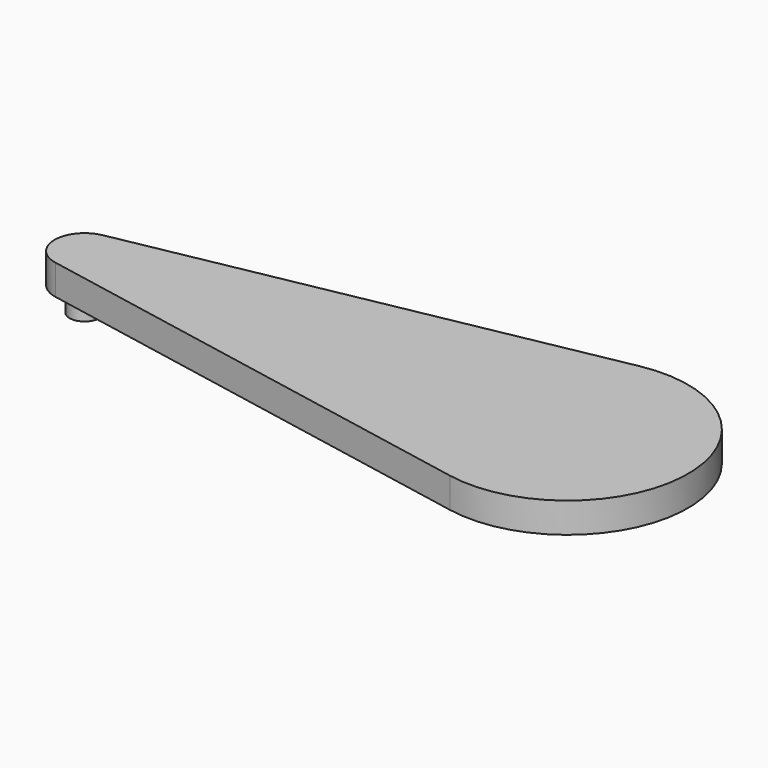
from build123d import *

# Parameters (mm, degrees)
F0_R     = 1.5875
F1_DEPTH = 3.175
F2_DEPTH = 2.54


with BuildPart() as f1:
    # F0 (on Top) → F1 (new body)
    with BuildSketch(Plane.XY):
        with BuildLine():
            Line((48.41875, 12.47476), (-0.595312, 3.11869))
            ThreePointArc((-0.595312, 3.11869), (-3.175, 0), (-0.595312, -3.11869))
            Line((-0.595312, -3.11869), (48.41875, -12.47476))
            ThreePointArc((48.41875, -12.47476), (63.5, 0), (48.41875, 12.47476))
        make_face()
        Circle(F0_R, mode=Mode.SUBTRACT)
        Circle(F0_R)
    extrude(amount=F1_DEPTH)

    # F0 (on Top) → F2 (join)
    with BuildSketch(Plane.XY):
        Circle(F0_R)
    extrude(amount=-F2_DEPTH)


solid = f1.part
